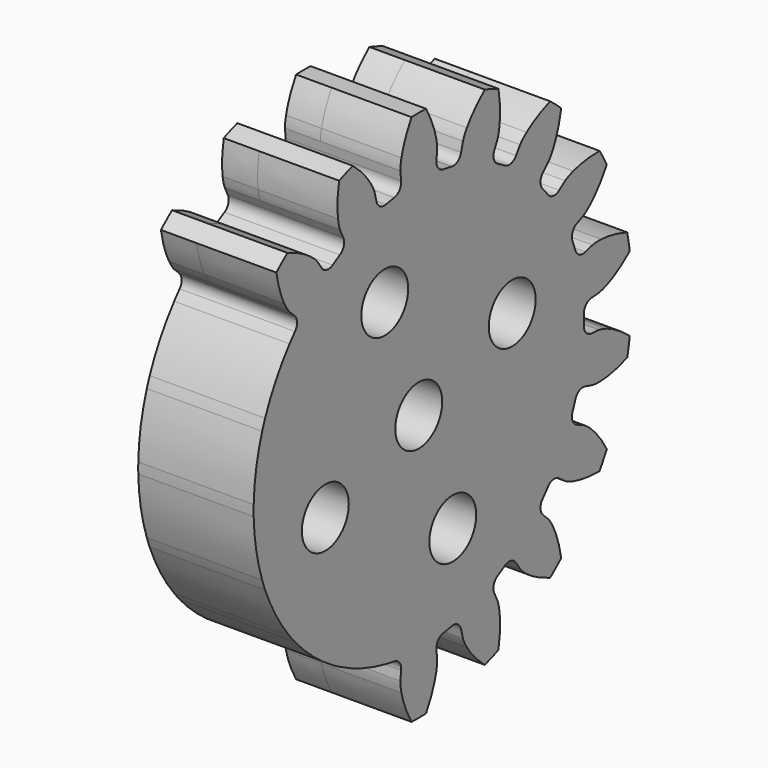
from build123d import *

# Parameters (mm, degrees)
PAD032_DEPTH            = 4.5
PAD032_DEPTH_BACK       = 2
SKETCH066_R             = 10
POCKET033_DEPTH         = 5
SKETCH067_R             = 1.65
POCKET034_DEPTH         = 10
POCKET035_DEPTH         = 10
BODY031_ROLL_ANGLE      = 90
BODY031_PITCH_ANGLE     = 70
BODY031_PLACEMENT_ANGLE = 90


with BuildPart() as part:
    # InvoluteGear → Pad032 (new body, two sides)
    with BuildSketch(Plane.XY) as pad032_sk:
        with BuildLine():
            Line((12.1314042691, -1.2438068422), (12.6457606707, -1.2954024904))
            add(Edge.make_bspline(
                [(12.6457606707, -1.2954024904), (12.7143020205, -1.2980327257), (12.9205183808, -1.2972700326), (13.2649377214, -1.221823986)],
                knots=[0, 0, 0, 0, 1, 1, 1, 1], degree=3))
            add(Edge.make_bspline(
                [(13.2649377214, -1.221823986), (13.6766074974, -1.130118773), (14.2679504077, -0.9325552563), (14.9930120143, -0.5104880719)],
                knots=[0, 0, 0, 0, 1, 1, 1, 1], degree=3))
            ThreePointArc((14.9930120143, -0.5104880719), (15.0008505754, 0.0003450732), (14.991288365, 0.5111488608))
            add(Edge.make_bspline(
                [(14.991288365, 0.5111488608), (14.2679504077, 0.9325552563), (13.6766074974, 1.130118773), (13.2649377214, 1.221823986)],
                knots=[0, 0, 0, 0, 1, 1, 1, 1], degree=3))
            add(Edge.make_bspline(
                [(13.2649377214, 1.221823986), (12.9205183808, 1.2972700326), (12.7143020205, 1.2980327257), (12.6457606707, 1.2954024904)],
                knots=[0, 0, 0, 0, 1, 1, 1, 1], degree=3))
            Line((12.6457606707, 1.2954024904), (12.1314042691, 1.2438068422))
            ThreePointArc((12.1314042691, 1.2438068422), (11.7160848983, 1.354787864), (11.4964068754, 1.7243126037))
            ThreePointArc((11.4964068754, 1.7243126037), (11.4483901288, 2.0186600654), (11.3928383502, 2.3116788977))
            ThreePointArc((11.3928383502, 2.3116788977), (11.4728832629, 2.7340528776), (11.8251980658, 2.9803885156))
            Line((11.8251980658, 2.9803885156), (12.3261817319, 3.1078247159))
            add(Edge.make_bspline(
                [(12.3261817319, 3.1078247159), (12.391489126, 3.1287956255), (12.5850082617, 3.2000424717), (12.8828525068, 3.3887369171)],
                knots=[0, 0, 0, 0, 1, 1, 1, 1], degree=3))
            add(Edge.make_bspline(
                [(12.8828525068, 3.3887369171), (13.2383305274, 3.6157109849), (13.7264403942, 4.0036111506), (14.2634199567, 4.6482102438)],
                knots=[0, 0, 0, 0, 1, 1, 1, 1], degree=3))
            ThreePointArc((14.2634199567, 4.6482102438), (14.0960705692, 5.1309173266), (13.912379846, 5.6076454078))
            add(Edge.make_bspline(
                [(13.912379846, 5.6076454078), (13.0885350294, 5.7562417362), (12.465283758, 5.739639528), (12.0470756772, 5.6850148843)],
                knots=[0, 0, 0, 0, 1, 1, 1, 1], degree=3))
            add(Edge.make_bspline(
                [(12.0470756772, 5.6850148843), (11.6976232967, 5.6381126252), (11.5035824483, 5.5682991732), (11.440074241, 5.5423850383)],
                knots=[0, 0, 0, 0, 1, 1, 1, 1], degree=3))
            Line((11.440074241, 5.5423850383), (10.974384077, 5.3179807381))
            ThreePointArc((10.974384077, 5.3179807381), (10.546153784, 5.2802211947), (10.2133390625, 5.5523265568))
            ThreePointArc((10.2133390625, 5.5523265568), (10.067545319, 5.8125), (9.9151253796, 6.0688478072))
            ThreePointArc((9.9151253796, 6.0688478072), (9.8458825842, 6.4931264918), (10.0926984545, 6.8451050325))
            Line((10.0926984545, 6.8451050325), (10.5198833612, 7.1362023948))
            add(Edge.make_bspline(
                [(10.5198833612, 7.1362023948), (10.574079764, 7.1782450481), (10.7315604112, 7.3113826263), (10.9469051492, 7.5905661356)],
                knots=[0, 0, 0, 0, 1, 1, 1, 1], degree=3))
            add(Edge.make_bspline(
                [(10.9469051492, 7.5905661356), (11.2033155188, 7.9254326358), (11.5293190886, 8.4568829657), (11.8134489467, 9.2462658039)],
                knots=[0, 0, 0, 0, 1, 1, 1, 1], degree=3))
            ThreePointArc((11.8134489467, 9.2462658039), (11.4910964166, 9.6426252261), (11.1554329928, 10.0277771587))
            add(Edge.make_bspline(
                [(11.1554329928, 10.0277771587), (10.3304491604, 9.8856405096), (9.7504628293, 9.656875048), (9.3761585104, 9.4625090856)],
                knots=[0, 0, 0, 0, 1, 1, 1, 1], degree=3))
            add(Edge.make_bspline(
                [(9.3761585104, 9.4625090856), (9.0638222045, 9.2989156256), (8.9053610579, 9.1669465611), (8.8545460204, 9.1208741536)],
                knots=[0, 0, 0, 0, 1, 1, 1, 1], degree=3))
            Line((8.8545460204, 9.1208741536), (8.4936912005, 8.750727672))
            ThreePointArc((8.4936912005, 8.750727672), (8.1042008787, 8.5687819215), (7.6983918259, 8.7106479837))
            ThreePointArc((7.6983918259, 8.7106479837), (7.4724059626, 8.9052666513), (7.2415019565, 9.0940241045))
            ThreePointArc((7.2415019565, 9.0940241045), (7.0313231562, 9.4690332228), (7.1428704573, 9.8842008595))
            Line((7.1428704573, 9.8842008595), (7.4447318002, 10.3038487458))
            add(Edge.make_bspline(
                [(7.4447318002, 10.3038487458), (7.4812803256, 10.3618921783), (7.5837279942, 10.5408621316), (7.6905994716, 10.8768610533)],
                knots=[0, 0, 0, 0, 1, 1, 1, 1], degree=3))
            add(Edge.make_bspline(
                [(7.6905994716, 10.8768610533), (7.8170153154, 11.2792301438), (7.9415917462, 11.8901298849), (7.9386016458, 12.7290852476)],
                knots=[0, 0, 0, 0, 1, 1, 1, 1], degree=3))
            ThreePointArc((7.9386016458, 12.7290852476), (7.5001264455, 12.9912902133), (7.0529762839, 13.2384109899))
            add(Edge.make_bspline(
                [(7.0529762839, 13.2384109899), (6.3263586615, 12.8226851411), (5.859592182, 12.4093489168), (5.5743382498, 12.0986850394)],
                knots=[0, 0, 0, 0, 1, 1, 1, 1], degree=3))
            add(Edge.make_bspline(
                [(5.5743382498, 12.0986850394), (5.3367903866, 11.8381321642), (5.2330216949, 11.659924904), (5.2010288705, 11.5992512362)],
                knots=[0, 0, 0, 0, 1, 1, 1, 1], degree=3))
            Line((5.2010288705, 11.5992512362), (4.9885338118, 11.1280077017))
            ThreePointArc((4.9885338118, 11.1280077017), (4.6847617422, 10.8238210869), (4.2549049189, 10.8183367082))
            ThreePointArc((4.2549049189, 10.8183367082), (3.9759841662, 10.9239267166), (3.6944465243, 11.0223268813))
            ThreePointArc((3.6944465243, 11.0223268813), (3.3686823842, 11.3028347991), (3.3315068653, 11.7311161876))
            Line((3.3315068653, 11.7311161876), (3.4716357115, 12.2286988694))
            add(Edge.make_bspline(
                [(3.4716357115, 12.2286988694), (3.4861280681, 12.2957421866), (3.5211860572, 12.4989580973), (3.5066939964, 12.8512460027)],
                knots=[0, 0, 0, 0, 1, 1, 1, 1], degree=3))
            add(Edge.make_bspline(
                [(3.5066939964, 12.8512460027), (3.487867698, 13.2725860329), (3.3959912338, 13.8892516602), (3.1062418251, 14.6765891492)],
                knots=[0, 0, 0, 0, 1, 1, 1, 1], degree=3))
            ThreePointArc((3.1062418251, 14.6765891492), (2.6045305351, 14.7730138698), (2.0998265444, 14.8522970777))
            add(Edge.make_bspline(
                [(2.0998265444, 14.8522970777), (1.5592159409, 14.2131247019), (1.2619682391, 13.6650721638), (1.1001705279, 13.2755810199)],
                knots=[0, 0, 0, 0, 1, 1, 1, 1], degree=3))
            add(Edge.make_bspline(
                [(1.1001705279, 13.2755810199), (0.9660628855, 12.9494952515), (0.9295026843, 12.7465442213), (0.9201908798, 12.678587433)],
                knots=[0, 0, 0, 0, 1, 1, 1, 1], degree=3))
            Line((0.9201908798, 12.678587433), (0.8816856224, 12.1630857706))
            ThreePointArc((0.8816856224, 12.1630857706), (0.7002711998, 11.7733476865), (0.2982136829, 11.621174364))
            ThreePointArc((0.2982136829, 11.621174364), (0, 11.625), (-0.2982136829, 11.621174364))
            ThreePointArc((-0.2982136829, 11.621174364), (-0.7002711998, 11.7733476865), (-0.8816856224, 12.1630857706))
            Line((-0.8816856224, 12.1630857706), (-0.9201908798, 12.678587433))
            add(Edge.make_bspline(
                [(-0.9201908798, 12.678587433), (-0.9295026843, 12.7465442213), (-0.9660628855, 12.9494952515), (-1.1001705279, 13.2755810199)],
                knots=[0, 0, 0, 0, 1, 1, 1, 1], degree=3))
            add(Edge.make_bspline(
                [(-1.1001705279, 13.2755810199), (-1.2619682391, 13.6650721638), (-1.5592159409, 14.2131247019), (-2.1007766029, 14.8538797961)],
                knots=[0, 0, 0, 0, 1, 1, 1, 1], degree=3))
            ThreePointArc((-2.1007766029, 14.8538797961), (-2.6052101967, 14.7728940271), (-3.1065932665, 14.6747769413))
            add(Edge.make_bspline(
                [(-3.1065932665, 14.6747769413), (-3.3959912338, 13.8892516602), (-3.487867698, 13.2725860329), (-3.5066939964, 12.8512460027)],
                knots=[0, 0, 0, 0, 1, 1, 1, 1], degree=3))
            add(Edge.make_bspline(
                [(-3.5066939964, 12.8512460027), (-3.5211860572, 12.4989580973), (-3.4861280681, 12.2957421866), (-3.4716357115, 12.2286988694)],
                knots=[0, 0, 0, 0, 1, 1, 1, 1], degree=3))
            Line((-3.4716357115, 12.2286988694), (-3.3315068653, 11.7311161876))
            ThreePointArc((-3.3315068653, 11.7311161876), (-3.3686823842, 11.3028347991), (-3.6944465243, 11.0223268813))
            ThreePointArc((-3.6944465243, 11.0223268813), (-3.9759841662, 10.9239267166), (-4.2549049189, 10.8183367082))
            ThreePointArc((-4.2549049189, 10.8183367082), (-4.6847617422, 10.8238210869), (-4.9885338118, 11.1280077017))
            Line((-4.9885338118, 11.1280077017), (-5.2010288705, 11.5992512362))
            add(Edge.make_bspline(
                [(-5.2010288705, 11.5992512362), (-5.2330216949, 11.659924904), (-5.3367903866, 11.8381321642), (-5.5743382498, 12.0986850394)],
                knots=[0, 0, 0, 0, 1, 1, 1, 1], degree=3))
            add(Edge.make_bspline(
                [(-5.5743382498, 12.0986850394), (-5.859592182, 12.4093489168), (-6.3263586615, 12.8226851411), (-7.0544103685, 13.2395733196)],
                knots=[0, 0, 0, 0, 1, 1, 1, 1], degree=3))
            ThreePointArc((-7.0544103685, 13.2395733196), (-7.5007241299, 12.9909451401), (-7.9383120811, 12.7272621291))
            add(Edge.make_bspline(
                [(-7.9383120811, 12.7272621291), (-7.9415917462, 11.8901298849), (-7.8170153154, 11.2792301438), (-7.6905994716, 10.8768610533)],
                knots=[0, 0, 0, 0, 1, 1, 1, 1], degree=3))
            add(Edge.make_bspline(
                [(-7.6905994716, 10.8768610533), (-7.5837279942, 10.5408621316), (-7.4812803256, 10.3618921783), (-7.4447318002, 10.3038487458)],
                knots=[0, 0, 0, 0, 1, 1, 1, 1], degree=3))
            Line((-7.4447318002, 10.3038487458), (-7.1428704573, 9.8842008595))
            ThreePointArc((-7.1428704573, 9.8842008595), (-7.0313231562, 9.4690332228), (-7.2415019565, 9.0940241045))
            ThreePointArc((-7.2415019565, 9.0940241045), (-7.4724059626, 8.9052666513), (-7.6983918259, 8.7106479837))
            ThreePointArc((-7.6983918259, 8.7106479837), (-8.1042008787, 8.5687819215), (-8.4936912005, 8.750727672))
            Line((-8.4936912005, 8.750727672), (-8.8545460204, 9.1208741536))
            add(Edge.make_bspline(
                [(-8.8545460204, 9.1208741536), (-8.9053610579, 9.1669465611), (-9.0638222045, 9.2989156256), (-9.3761585104, 9.4625090856)],
                knots=[0, 0, 0, 0, 1, 1, 1, 1], degree=3))
            add(Edge.make_bspline(
                [(-9.3761585104, 9.4625090856), (-9.7504628293, 9.656875048), (-10.3304491604, 9.8856405096), (-11.1571781316, 10.0283789054)],
                knots=[0, 0, 0, 0, 1, 1, 1, 1], degree=3))
            ThreePointArc((-11.1571781316, 10.0283789054), (-11.4915400342, 9.6420965432), (-11.8125533016, 9.2446516698))
            add(Edge.make_bspline(
                [(-11.8125533016, 9.2446516698), (-11.5293190886, 8.4568829657), (-11.2033155188, 7.9254326358), (-10.9469051492, 7.5905661356)],
                knots=[0, 0, 0, 0, 1, 1, 1, 1], degree=3))
            add(Edge.make_bspline(
                [(-10.9469051492, 7.5905661356), (-10.7315604112, 7.3113826263), (-10.574079764, 7.1782450481), (-10.5198833612, 7.1362023948)],
                knots=[0, 0, 0, 0, 1, 1, 1, 1], degree=3))
            Line((-10.5198833612, 7.1362023948), (-10.0926984545, 6.8451050325))
            ThreePointArc((-10.0926984545, 6.8451050325), (-9.8458825842, 6.4931264918), (-9.9151253796, 6.0688478072))
            ThreePointArc((-9.9151253796, 6.0688478072), (-10.067545319, 5.8125), (-10.2133390625, 5.5523265568))
            ThreePointArc((-10.2133390625, 5.5523265568), (-10.546153784, 5.2802211947), (-10.974384077, 5.3179807381))
            Line((-10.974384077, 5.3179807381), (-11.440074241, 5.5423850383))
            add(Edge.make_bspline(
                [(-11.440074241, 5.5423850383), (-11.5035824483, 5.5682991732), (-11.6976232967, 5.6381126252), (-12.0470756772, 5.6850148843)],
                knots=[0, 0, 0, 0, 1, 1, 1, 1], degree=3))
            add(Edge.make_bspline(
                [(-12.0470756772, 5.6850148843), (-12.465283758, 5.739639528), (-13.0885350294, 5.7562417362), (-13.9142255496, 5.6076139922)],
                knots=[0, 0, 0, 0, 1, 1, 1, 1], degree=3))
            ThreePointArc((-13.9142255496, 5.6076139922), (-14.0963066132, 5.130268801), (-14.2620262593, 4.6469997826))
            add(Edge.make_bspline(
                [(-14.2620262593, 4.6469997826), (-13.7264403942, 4.0036111506), (-13.2383305274, 3.6157109849), (-12.8828525068, 3.3887369171)],
                knots=[0, 0, 0, 0, 1, 1, 1, 1], degree=3))
            add(Edge.make_bspline(
                [(-12.8828525068, 3.3887369171), (-12.5850082617, 3.2000424717), (-12.391489126, 3.1287956255), (-12.3261817319, 3.1078247159)],
                knots=[0, 0, 0, 0, 1, 1, 1, 1], degree=3))
            Line((-12.3261817319, 3.1078247159), (-11.8251980658, 2.9803885156))
            ThreePointArc((-11.8251980658, 2.9803885156), (-11.4728832629, 2.7340528776), (-11.3928383502, 2.3116788977))
            ThreePointArc((-11.3928383502, 2.3116788977), (-11.4483901288, 2.0186600654), (-11.4964068754, 1.7243126037))
            ThreePointArc((-11.4964068754, 1.7243126037), (-11.7160848983, 1.354787864), (-12.1314042691, 1.2438068422))
            Line((-12.1314042691, 1.2438068422), (-12.6457606707, 1.2954024904))
            add(Edge.make_bspline(
                [(-12.6457606707, 1.2954024904), (-12.7143020205, 1.2980327257), (-12.9205183808, 1.2972700326), (-13.2649377214, 1.221823986)],
                knots=[0, 0, 0, 0, 1, 1, 1, 1], degree=3))
            add(Edge.make_bspline(
                [(-13.2649377214, 1.221823986), (-13.6766074974, 1.130118773), (-14.2679504077, 0.9325552563), (-14.9930120143, 0.5104880719)],
                knots=[0, 0, 0, 0, 1, 1, 1, 1], degree=3))
            ThreePointArc((-14.9930120143, 0.5104880719), (-15.0008505754, -0.0003450732), (-14.991288365, -0.5111488608))
            add(Edge.make_bspline(
                [(-14.991288365, -0.5111488608), (-14.2679504077, -0.9325552563), (-13.6766074974, -1.130118773), (-13.2649377214, -1.221823986)],
                knots=[0, 0, 0, 0, 1, 1, 1, 1], degree=3))
            add(Edge.make_bspline(
                [(-13.2649377214, -1.221823986), (-12.9205183808, -1.2972700326), (-12.7143020205, -1.2980327257), (-12.6457606707, -1.2954024904)],
                knots=[0, 0, 0, 0, 1, 1, 1, 1], degree=3))
            Line((-12.6457606707, -1.2954024904), (-12.1314042691, -1.2438068422))
            ThreePointArc((-12.1314042691, -1.2438068422), (-11.7160848983, -1.354787864), (-11.4964068754, -1.7243126037))
            ThreePointArc((-11.4964068754, -1.7243126037), (-11.4483901288, -2.0186600654), (-11.3928383502, -2.3116788977))
            ThreePointArc((-11.3928383502, -2.3116788977), (-11.4728832629, -2.7340528776), (-11.8251980658, -2.9803885156))
            Line((-11.8251980658, -2.9803885156), (-12.3261817319, -3.1078247159))
            add(Edge.make_bspline(
                [(-12.3261817319, -3.1078247159), (-12.391489126, -3.1287956255), (-12.5850082617, -3.2000424717), (-12.8828525068, -3.3887369171)],
                knots=[0, 0, 0, 0, 1, 1, 1, 1], degree=3))
            add(Edge.make_bspline(
                [(-12.8828525068, -3.3887369171), (-13.2383305274, -3.6157109849), (-13.7264403942, -4.0036111506), (-14.2634199567, -4.6482102438)],
                knots=[0, 0, 0, 0, 1, 1, 1, 1], degree=3))
            ThreePointArc((-14.2634199567, -4.6482102438), (-14.0960705692, -5.1309173266), (-13.912379846, -5.6076454078))
            add(Edge.make_bspline(
                [(-13.912379846, -5.6076454078), (-13.0885350294, -5.7562417362), (-12.465283758, -5.739639528), (-12.0470756772, -5.6850148843)],
                knots=[0, 0, 0, 0, 1, 1, 1, 1], degree=3))
            add(Edge.make_bspline(
                [(-12.0470756772, -5.6850148843), (-11.6976232967, -5.6381126252), (-11.5035824483, -5.5682991732), (-11.440074241, -5.5423850383)],
                knots=[0, 0, 0, 0, 1, 1, 1, 1], degree=3))
            Line((-11.440074241, -5.5423850383), (-10.974384077, -5.3179807381))
            ThreePointArc((-10.974384077, -5.3179807381), (-10.546153784, -5.2802211947), (-10.2133390625, -5.5523265568))
            ThreePointArc((-10.2133390625, -5.5523265568), (-10.067545319, -5.8125), (-9.9151253796, -6.0688478072))
            ThreePointArc((-9.9151253796, -6.0688478072), (-9.8458825842, -6.4931264918), (-10.0926984545, -6.8451050325))
            Line((-10.0926984545, -6.8451050325), (-10.5198833612, -7.1362023948))
            add(Edge.make_bspline(
                [(-10.5198833612, -7.1362023948), (-10.574079764, -7.1782450481), (-10.7315604112, -7.3113826263), (-10.9469051492, -7.5905661356)],
                knots=[0, 0, 0, 0, 1, 1, 1, 1], degree=3))
            add(Edge.make_bspline(
                [(-10.9469051492, -7.5905661356), (-11.2033155188, -7.9254326358), (-11.5293190886, -8.4568829657), (-11.8134489467, -9.2462658039)],
                knots=[0, 0, 0, 0, 1, 1, 1, 1], degree=3))
            ThreePointArc((-11.8134489467, -9.2462658039), (-11.4910964166, -9.6426252261), (-11.1554329928, -10.0277771587))
            add(Edge.make_bspline(
                [(-11.1554329928, -10.0277771587), (-10.3304491604, -9.8856405096), (-9.7504628293, -9.656875048), (-9.3761585104, -9.4625090856)],
                knots=[0, 0, 0, 0, 1, 1, 1, 1], degree=3))
            add(Edge.make_bspline(
                [(-9.3761585104, -9.4625090856), (-9.0638222045, -9.2989156256), (-8.9053610579, -9.1669465611), (-8.8545460204, -9.1208741536)],
                knots=[0, 0, 0, 0, 1, 1, 1, 1], degree=3))
            Line((-8.8545460204, -9.1208741536), (-8.4936912005, -8.750727672))
            ThreePointArc((-8.4936912005, -8.750727672), (-8.1042008787, -8.5687819215), (-7.6983918259, -8.7106479837))
            ThreePointArc((-7.6983918259, -8.7106479837), (-7.4724059626, -8.9052666513), (-7.2415019565, -9.0940241045))
            ThreePointArc((-7.2415019565, -9.0940241045), (-7.0313231562, -9.4690332228), (-7.1428704573, -9.8842008595))
            Line((-7.1428704573, -9.8842008595), (-7.4447318002, -10.3038487458))
            add(Edge.make_bspline(
                [(-7.4447318002, -10.3038487458), (-7.4812803256, -10.3618921783), (-7.5837279942, -10.5408621316), (-7.6905994716, -10.8768610533)],
                knots=[0, 0, 0, 0, 1, 1, 1, 1], degree=3))
            add(Edge.make_bspline(
                [(-7.6905994716, -10.8768610533), (-7.8170153154, -11.2792301438), (-7.9415917462, -11.8901298849), (-7.9386016458, -12.7290852476)],
                knots=[0, 0, 0, 0, 1, 1, 1, 1], degree=3))
            ThreePointArc((-7.9386016458, -12.7290852476), (-7.5001264455, -12.9912902133), (-7.0529762839, -13.2384109899))
            add(Edge.make_bspline(
                [(-7.0529762839, -13.2384109899), (-6.3263586615, -12.8226851411), (-5.859592182, -12.4093489168), (-5.5743382498, -12.0986850394)],
                knots=[0, 0, 0, 0, 1, 1, 1, 1], degree=3))
            add(Edge.make_bspline(
                [(-5.5743382498, -12.0986850394), (-5.3367903866, -11.8381321642), (-5.2330216949, -11.659924904), (-5.2010288705, -11.5992512362)],
                knots=[0, 0, 0, 0, 1, 1, 1, 1], degree=3))
            Line((-5.2010288705, -11.5992512362), (-4.9885338118, -11.1280077017))
            ThreePointArc((-4.9885338118, -11.1280077017), (-4.6847617422, -10.8238210869), (-4.2549049189, -10.8183367082))
            ThreePointArc((-4.2549049189, -10.8183367082), (-3.9759841662, -10.9239267166), (-3.6944465243, -11.0223268813))
            ThreePointArc((-3.6944465243, -11.0223268813), (-3.3686823842, -11.3028347991), (-3.3315068653, -11.7311161876))
            Line((-3.3315068653, -11.7311161876), (-3.4716357115, -12.2286988694))
            add(Edge.make_bspline(
                [(-3.4716357115, -12.2286988694), (-3.4861280681, -12.2957421866), (-3.5211860572, -12.4989580973), (-3.5066939964, -12.8512460027)],
                knots=[0, 0, 0, 0, 1, 1, 1, 1], degree=3))
            add(Edge.make_bspline(
                [(-3.5066939964, -12.8512460027), (-3.487867698, -13.2725860329), (-3.3959912338, -13.8892516602), (-3.1062418251, -14.6765891492)],
                knots=[0, 0, 0, 0, 1, 1, 1, 1], degree=3))
            ThreePointArc((-3.1062418251, -14.6765891492), (-2.6045305351, -14.7730138698), (-2.0998265444, -14.8522970777))
            add(Edge.make_bspline(
                [(-2.0998265444, -14.8522970777), (-1.5592159409, -14.2131247019), (-1.2619682391, -13.6650721638), (-1.1001705279, -13.2755810199)],
                knots=[0, 0, 0, 0, 1, 1, 1, 1], degree=3))
            add(Edge.make_bspline(
                [(-1.1001705279, -13.2755810199), (-0.9660628855, -12.9494952515), (-0.9295026843, -12.7465442213), (-0.9201908798, -12.678587433)],
                knots=[0, 0, 0, 0, 1, 1, 1, 1], degree=3))
            Line((-0.9201908798, -12.678587433), (-0.8816856224, -12.1630857706))
            ThreePointArc((-0.8816856224, -12.1630857706), (-0.7002711998, -11.7733476865), (-0.2982136829, -11.621174364))
            ThreePointArc((-0.2982136829, -11.621174364), (0, -11.625), (0.2982136829, -11.621174364))
            ThreePointArc((0.2982136829, -11.621174364), (0.7002711998, -11.7733476865), (0.8816856224, -12.1630857706))
            Line((0.8816856224, -12.1630857706), (0.9201908798, -12.678587433))
            add(Edge.make_bspline(
                [(0.9201908798, -12.678587433), (0.9295026843, -12.7465442213), (0.9660628855, -12.9494952515), (1.1001705279, -13.2755810199)],
                knots=[0, 0, 0, 0, 1, 1, 1, 1], degree=3))
            add(Edge.make_bspline(
                [(1.1001705279, -13.2755810199), (1.2619682391, -13.6650721638), (1.5592159409, -14.2131247019), (2.1007766029, -14.8538797961)],
                knots=[0, 0, 0, 0, 1, 1, 1, 1], degree=3))
            ThreePointArc((2.1007766029, -14.8538797961), (2.6052101967, -14.7728940271), (3.1065932665, -14.6747769413))
            add(Edge.make_bspline(
                [(3.1065932665, -14.6747769413), (3.3959912338, -13.8892516602), (3.487867698, -13.2725860329), (3.5066939964, -12.8512460027)],
                knots=[0, 0, 0, 0, 1, 1, 1, 1], degree=3))
            add(Edge.make_bspline(
                [(3.5066939964, -12.8512460027), (3.5211860572, -12.4989580973), (3.4861280681, -12.2957421866), (3.4716357115, -12.2286988694)],
                knots=[0, 0, 0, 0, 1, 1, 1, 1], degree=3))
            Line((3.4716357115, -12.2286988694), (3.3315068653, -11.7311161876))
            ThreePointArc((3.3315068653, -11.7311161876), (3.3686823842, -11.3028347991), (3.6944465243, -11.0223268813))
            ThreePointArc((3.6944465243, -11.0223268813), (3.9759841662, -10.9239267166), (4.2549049189, -10.8183367082))
            ThreePointArc((4.2549049189, -10.8183367082), (4.6847617422, -10.8238210869), (4.9885338118, -11.1280077017))
            Line((4.9885338118, -11.1280077017), (5.2010288705, -11.5992512362))
            add(Edge.make_bspline(
                [(5.2010288705, -11.5992512362), (5.2330216949, -11.659924904), (5.3367903866, -11.8381321642), (5.5743382498, -12.0986850394)],
                knots=[0, 0, 0, 0, 1, 1, 1, 1], degree=3))
            add(Edge.make_bspline(
                [(5.5743382498, -12.0986850394), (5.859592182, -12.4093489168), (6.3263586615, -12.8226851411), (7.0544103685, -13.2395733196)],
                knots=[0, 0, 0, 0, 1, 1, 1, 1], degree=3))
            ThreePointArc((7.0544103685, -13.2395733196), (7.5007241299, -12.9909451401), (7.9383120811, -12.7272621291))
            add(Edge.make_bspline(
                [(7.9383120811, -12.7272621291), (7.9415917462, -11.8901298849), (7.8170153154, -11.2792301438), (7.6905994716, -10.8768610533)],
                knots=[0, 0, 0, 0, 1, 1, 1, 1], degree=3))
            add(Edge.make_bspline(
                [(7.6905994716, -10.8768610533), (7.5837279942, -10.5408621316), (7.4812803256, -10.3618921783), (7.4447318002, -10.3038487458)],
                knots=[0, 0, 0, 0, 1, 1, 1, 1], degree=3))
            Line((7.4447318002, -10.3038487458), (7.1428704573, -9.8842008595))
            ThreePointArc((7.1428704573, -9.8842008595), (7.0313231562, -9.4690332228), (7.2415019565, -9.0940241045))
            ThreePointArc((7.2415019565, -9.0940241045), (7.4724059626, -8.9052666513), (7.6983918259, -8.7106479837))
            ThreePointArc((7.6983918259, -8.7106479837), (8.1042008787, -8.5687819215), (8.4936912005, -8.750727672))
            Line((8.4936912005, -8.750727672), (8.8545460204, -9.1208741536))
            add(Edge.make_bspline(
                [(8.8545460204, -9.1208741536), (8.9053610579, -9.1669465611), (9.0638222045, -9.2989156256), (9.3761585104, -9.4625090856)],
                knots=[0, 0, 0, 0, 1, 1, 1, 1], degree=3))
            add(Edge.make_bspline(
                [(9.3761585104, -9.4625090856), (9.7504628293, -9.656875048), (10.3304491604, -9.8856405096), (11.1571781316, -10.0283789054)],
                knots=[0, 0, 0, 0, 1, 1, 1, 1], degree=3))
            ThreePointArc((11.1571781316, -10.0283789054), (11.4915400342, -9.6420965432), (11.8125533016, -9.2446516698))
            add(Edge.make_bspline(
                [(11.8125533016, -9.2446516698), (11.5293190886, -8.4568829657), (11.2033155188, -7.9254326358), (10.9469051492, -7.5905661356)],
                knots=[0, 0, 0, 0, 1, 1, 1, 1], degree=3))
            add(Edge.make_bspline(
                [(10.9469051492, -7.5905661356), (10.7315604112, -7.3113826263), (10.574079764, -7.1782450481), (10.5198833612, -7.1362023948)],
                knots=[0, 0, 0, 0, 1, 1, 1, 1], degree=3))
            Line((10.5198833612, -7.1362023948), (10.0926984545, -6.8451050325))
            ThreePointArc((10.0926984545, -6.8451050325), (9.8458825842, -6.4931264918), (9.9151253796, -6.0688478072))
            ThreePointArc((9.9151253796, -6.0688478072), (10.067545319, -5.8125), (10.2133390625, -5.5523265568))
            ThreePointArc((10.2133390625, -5.5523265568), (10.546153784, -5.2802211947), (10.974384077, -5.3179807381))
            Line((10.974384077, -5.3179807381), (11.440074241, -5.5423850383))
            add(Edge.make_bspline(
                [(11.440074241, -5.5423850383), (11.5035824483, -5.5682991732), (11.6976232967, -5.6381126252), (12.0470756772, -5.6850148843)],
                knots=[0, 0, 0, 0, 1, 1, 1, 1], degree=3))
            add(Edge.make_bspline(
                [(12.0470756772, -5.6850148843), (12.465283758, -5.739639528), (13.0885350294, -5.7562417362), (13.9142255496, -5.6076139922)],
                knots=[0, 0, 0, 0, 1, 1, 1, 1], degree=3))
            ThreePointArc((13.9142255496, -5.6076139922), (14.0963066132, -5.130268801), (14.2620262593, -4.6469997826))
            add(Edge.make_bspline(
                [(14.2620262593, -4.6469997826), (13.7264403942, -4.0036111506), (13.2383305274, -3.6157109849), (12.8828525068, -3.3887369171)],
                knots=[0, 0, 0, 0, 1, 1, 1, 1], degree=3))
            add(Edge.make_bspline(
                [(12.8828525068, -3.3887369171), (12.5850082617, -3.2000424717), (12.391489126, -3.1287956255), (12.3261817319, -3.1078247159)],
                knots=[0, 0, 0, 0, 1, 1, 1, 1], degree=3))
            Line((12.3261817319, -3.1078247159), (11.8251980658, -2.9803885156))
            ThreePointArc((11.8251980658, -2.9803885156), (11.4728832629, -2.7340528776), (11.3928383502, -2.3116788977))
            ThreePointArc((11.3928383502, -2.3116788977), (11.4483901288, -2.0186600654), (11.4964068754, -1.7243126037))
            ThreePointArc((11.4964068754, -1.7243126037), (11.7160848983, -1.354787864), (12.1314042691, -1.2438068422))
        make_face()
    extrude(amount=PAD032_DEPTH)
    extrude(pad032_sk.sketch, amount=-PAD032_DEPTH_BACK)

    # Sketch066 → Pocket033 (cut)
    with BuildSketch(Plane.XY):
        Circle(SKETCH066_R)
    extrude(amount=-POCKET033_DEPTH, mode=Mode.SUBTRACT)

    # Sketch067 → Pocket034 (cut, symmetric)
    with BuildSketch(Plane.XY):
        with Locations((0, 7)):
            Circle(SKETCH067_R)
        with Locations((7, 0)):
            Circle(SKETCH067_R)
        with Locations((-7, 0)):
            Circle(SKETCH067_R)
        with Locations((0, -7)):
            Circle(SKETCH067_R)
        Circle(SKETCH067_R)
    extrude(amount=POCKET034_DEPTH, both=True, mode=Mode.SUBTRACT)

    # Sketch068 → Pocket035 (cut, symmetric)
    with BuildSketch(Plane.XY):
        with BuildLine():
            ThreePointArc((-10.067545319, -5.8125), (0, -11.625), (10.067545319, -5.8125))
            Line((13.8564064606, -8), (10.067545319, -5.8125))
            ThreePointArc((-13.8564064606, -8), (0, -16), (13.8564064606, -8))
            Line((-13.8564064606, -8), (-10.067545319, -5.8125))
        make_face()
    extrude(amount=POCKET035_DEPTH, both=True, mode=Mode.SUBTRACT)


with BuildPart() as part_1:
    # Body031 roll: moved
    add(part.part.rotate(Axis((0, 0, 0), (1, 0, 0)), BODY031_ROLL_ANGLE))


with BuildPart() as part_2:
    # Body031 pitch: moved
    add(part_1.part.rotate(Axis((0, 0, 0), (0, 1, 0)), BODY031_PITCH_ANGLE))


with BuildPart() as part_3:
    # Body031 placement: moved
    add(part_2.part.rotate(Axis((0, 0, 0), (0, 0, 1)), BODY031_PLACEMENT_ANGLE))


solid = part_3.part
